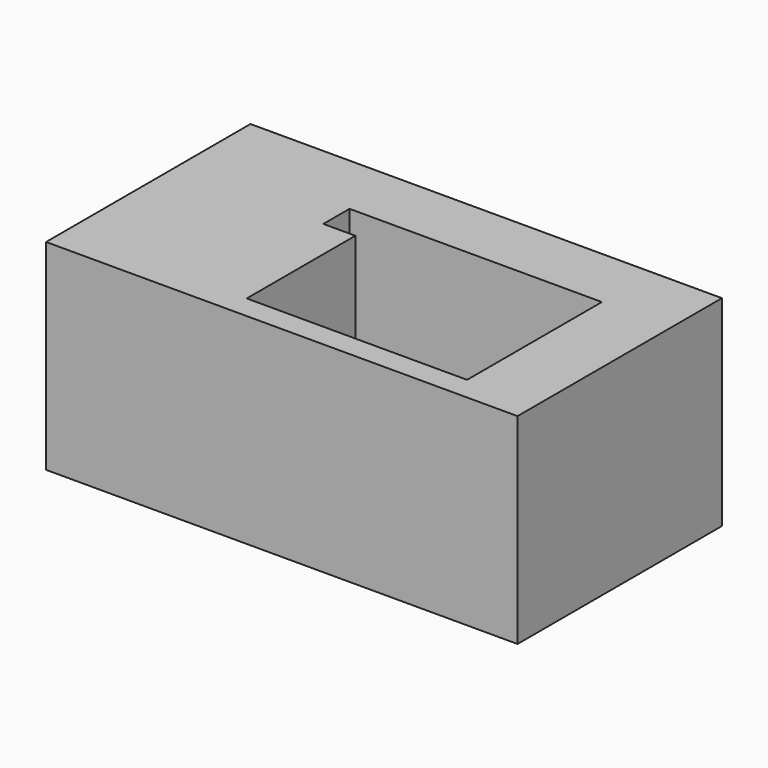
from build123d import *

# Parameters (mm, degrees)
F0_W     = 287.709698
F0_H     = 155.906782
F1_DEPTH = 122.428


with BuildPart() as f1:
    # F0 (on Top) → F1 (new body)
    with BuildSketch(Plane.XY):
        with Locations((1.449592, -2.510771)):
            Rectangle(F0_W, F0_H)
        Polygon((-31.338818, 16.6189), (-50.873816, 16.6189), (-50.873816, 36.585487), (-31.338818, 36.585487), (103.12818, 36.585487), (103.12818, -66.236466), (-31.338818, -66.236466), align=None, mode=Mode.SUBTRACT)
    extrude(amount=-F1_DEPTH)


solid = f1.part
